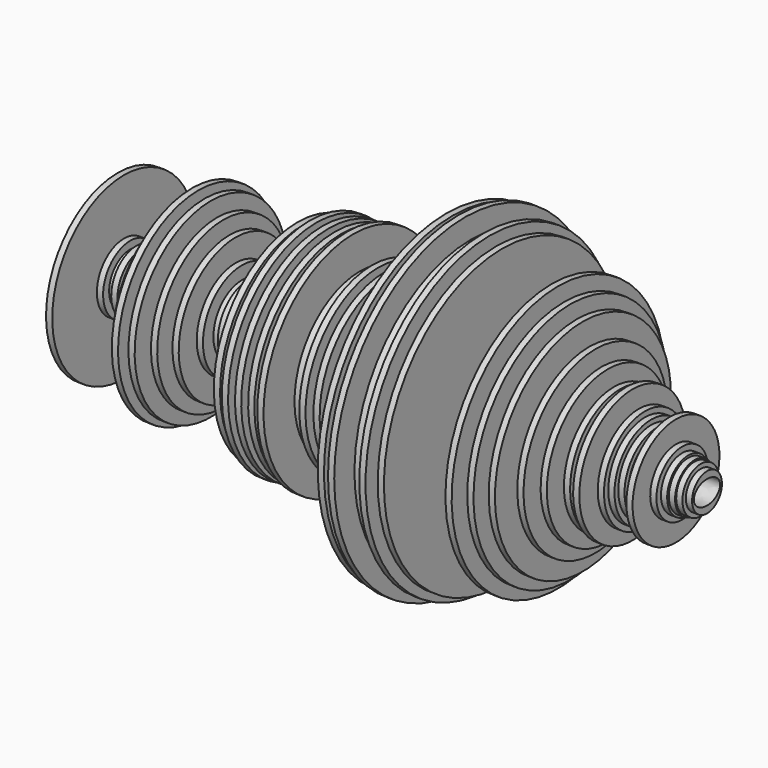
from build123d import *

# Parameters (mm, degrees)
F3_DEPTH = 63.501


with BuildPart() as f1:
    # F0 (on Front) → F1 (revolve)
    with BuildSketch(Plane.XZ):
        Polygon((-31.75, 5.290013), (-31.75, 0), (31.75, 0), (31.75, 1.989628), (31.088542, 1.989628), (31.088542, 2.452152), (30.427083, 2.452152), (30.427083, 2.603324), (29.765625, 2.603324), (29.765625, 2.830083), (29.104167, 2.830083), (29.104167, 3.434771), (28.442708, 3.434771), (28.442708, 5.790877), (27.78125, 5.790877), (27.78125, 4.027111), (27.119792, 4.027111), (27.119792, 3.866769), (26.458333, 3.866769), (26.458333, 4.386667), (25.796875, 4.386667), (25.796875, 4.895148), (25.135417, 4.895148), (25.135417, 5.467189), (24.473958, 5.467189), (24.473958, 4.386667), (23.8125, 4.386667), (23.8125, 7.099034), (23.151042, 7.099034), (23.151042, 5.790127), (22.489583, 5.790127), (22.489583, 6.67483), (21.828125, 6.67483), (21.828125, 4.831587), (21.166667, 4.831587), (21.166667, 8.123973), (20.505208, 8.123973), (20.505208, 6.937105), (19.84375, 6.937105), (19.84375, 9.576785), (19.182292, 9.576785), (19.182292, 6.337178), (18.520833, 6.337178), (18.520833, 11.736524), (17.859375, 11.736524), (17.859375, 6.020186), (17.197917, 6.020186), (17.197917, 12.941525), (16.536458, 12.941525), (16.536458, 7.278611), (15.875, 7.278611), (15.875, 14.19995), (15.213542, 14.19995), (15.213542, 6.55951), (14.552083, 6.55951), (14.552083, 11.593213), (13.890625, 11.593213), (13.890625, 4.40221), (13.229167, 4.40221), (13.229167, 3.930429), (12.567708, 3.930429), (12.567708, 4.94739), (11.90625, 4.94739), (11.90625, 3.549068), (11.244792, 3.549068), (11.244792, 4.057549), (10.583333, 4.057549), (10.583333, 5.398192), (9.921875, 5.398192), (9.921875, 15.786517), (9.260417, 15.786517), (9.260417, 6.597052), (8.598958, 6.597052), (8.598958, 16.58823), (7.9375, 16.58823), (7.9375, 10.368804), (7.276042, 10.368804), (7.276042, 15.580428), (6.614583, 15.580428), (6.614583, 11.385601), (5.953125, 11.385601), (5.953125, 17.450722), (5.291667, 17.450722), (5.291667, 9.842573), (4.630208, 9.842573), (4.630208, 17.165026), (3.96875, 17.165026), (3.96875, 2.85967), (3.307292, 2.85967), (3.307292, 6.024629), (2.645833, 6.024629), (2.645833, 3.533065), (1.984375, 3.533065), (1.984375, 3.061688), (1.322917, 3.061688), (1.322917, 2.590311), (0.661458, 2.590311), (0.661458, 3.600405), (0, 3.600405), (0, 6.226647), (-0.661458, 6.226647), (-0.661458, 4.408478), (-1.322917, 4.408478), (-1.322917, 4.903582), (-1.984375, 4.903582), (-1.984375, 9.474742), (-2.645833, 9.474742), (-2.645833, 6.332069), (-3.307292, 6.332069), (-3.307292, 9.704434), (-3.96875, 9.704434), (-3.96875, 6.098168), (-4.630208, 6.098168), (-4.630208, 8.686793), (-5.291667, 8.686793), (-5.291667, 4.563235), (-5.953125, 4.563235), (-5.953125, 11.996145), (-6.614583, 11.996145), (-6.614583, 4.563235), (-7.276042, 4.563235), (-7.276042, 11.559349), (-7.9375, 11.559349), (-7.9375, 7.165443), (-8.598958, 7.165443), (-8.598958, 11.660359), (-9.260417, 11.660359), (-9.260417, 6.138515), (-9.921875, 6.138515), (-9.921875, 11.761368), (-10.583333, 11.761368), (-10.583333, 5.835487), (-11.244792, 5.835487), (-11.244792, 11.172147), (-11.90625, 11.172147), (-11.90625, 4.589705), (-12.567708, 4.589705), (-12.567708, 7.401132), (-13.229167, 7.401132), (-13.229167, 4.556036), (-13.890625, 4.556036), (-13.890625, 6.797765), (-14.552083, 6.797765), (-14.552083, 5.732199), (-15.213542, 5.732199), (-15.213542, 2.874688), (-15.875, 2.874688), (-15.875, 3.438427), (-16.536458, 3.438427), (-16.536458, 4.020754), (-17.197917, 4.020754), (-17.197917, 3.788008), (-17.859375, 3.788008), (-17.859375, 5.185065), (-18.520833, 5.185065), (-18.520833, 7.590048), (-19.182292, 7.590048), (-19.182292, 4.881558), (-19.84375, 4.881558), (-19.84375, 8.802892), (-20.505208, 8.802892), (-20.505208, 5.7955), (-21.166667, 5.7955), (-21.166667, 10.155044), (-21.828125, 10.155044), (-21.828125, 7.503363), (-22.489583, 7.503363), (-22.489583, 10.716842), (-23.151042, 10.716842), (-23.151042, 4.523659), (-23.8125, 4.523659), (-23.8125, 8.857793), (-24.473958, 8.857793), (-24.473958, 3.267878), (-25.135417, 3.267878), (-25.135417, 2.517954), (-25.796875, 2.517954), (-26.458333, 2.517954), (-26.458333, 3.106485), (-27.119792, 3.106485), (-27.119792, 2.400218), (-27.78125, 2.400218), (-27.78125, 2.904694), (-28.442708, 2.904694), (-28.442708, 3.358723), (-29.104167, 3.358723), (-29.104167, 2.803799), (-29.765625, 2.803799), (-29.765625, 3.610962), (-30.427083, 3.610962), (-30.427083, 9.563786), (-31.088542, 9.563786), (-31.088542, 5.290013), align=None)
    revolve(axis=Axis((0, 0, 0), (1, 0, 0)))

    # F2 (on face) → F3 (cut, through all)
    with BuildSketch(Plane.YZ.offset(31.75)):
        with BuildLine():
            add(Edge.make_bspline(
                [(1.75, 0), (1.75, 2.165064), (-0.875, 1.082532), (-3.5, 0), (-0.875, -1.082532), (1.75, -2.165064), (1.75, 0)],
                knots=[0, 0, 0, 2.094395, 2.094395, 4.18879, 4.18879, 6.283185, 6.283185, 6.283185], degree=2, weights=[1, 0.5, 1, 0.5, 1, 0.5, 1]))
        make_face()
    extrude(amount=-F3_DEPTH, mode=Mode.SUBTRACT)


solid = f1.part
